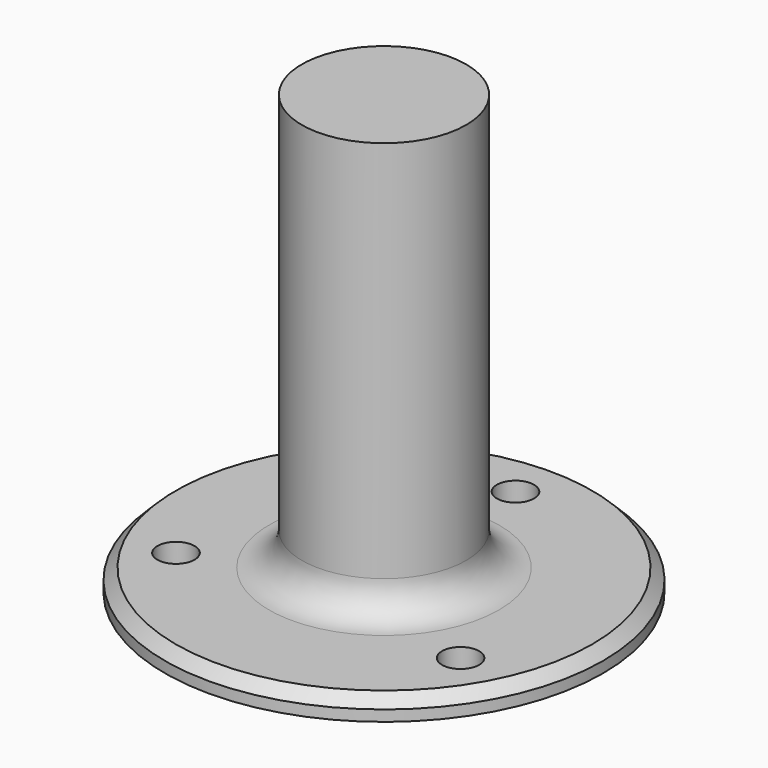
from build123d import *

# Parameters (mm, degrees)
SKETCH_R           = 20
PAD_DEPTH          = 2
SKETCH001_R        = 7.5
PAD001_DEPTH       = 38
SKETCH002_R        = 1.7
HOLE_DEPTH         = 140.565065
POLARPATTERN_COUNT = 3
FILLET_R           = 3
CHAMFER_SIZE       = 1


with BuildPart() as part:
    # Sketch → Pad (new body)
    with BuildSketch(Plane.XY):
        Circle(SKETCH_R)
    extrude(amount=PAD_DEPTH)

    # Sketch001 (on Face3 of Pad) → Pad001 (join)
    with BuildSketch(Plane.XY.offset(2)):
        Circle(SKETCH001_R)
    extrude(amount=PAD001_DEPTH)

    # Sketch002 (on Face3 of Pad001) → Hole (cut, through all)
    with BuildSketch(Plane.XY.offset(2)):
        with Locations((0, 15)):
            Circle(SKETCH002_R)
    hole = extrude(amount=-HOLE_DEPTH, mode=Mode.SUBTRACT)

    # PolarPattern: Hole ×3 about axis
    polarpattern_axis = Axis((0, 0, 2), (0, 0, 1))
    for i in range(1, POLARPATTERN_COUNT):
        add(hole.rotate(polarpattern_axis, i * 360 / POLARPATTERN_COUNT), mode=Mode.SUBTRACT)

    # Fillet
    fillet_edges = [part.edges().sort_by_distance(p)[0] for p in [
        (-7.5, 0, 2),
    ]]
    fillet(fillet_edges, radius=FILLET_R)

    # Chamfer
    chamfer_edges = [part.edges().sort_by_distance(p)[0] for p in [
        (-20, 0, 2),
    ]]
    chamfer(chamfer_edges, length=CHAMFER_SIZE)


solid = part.part
